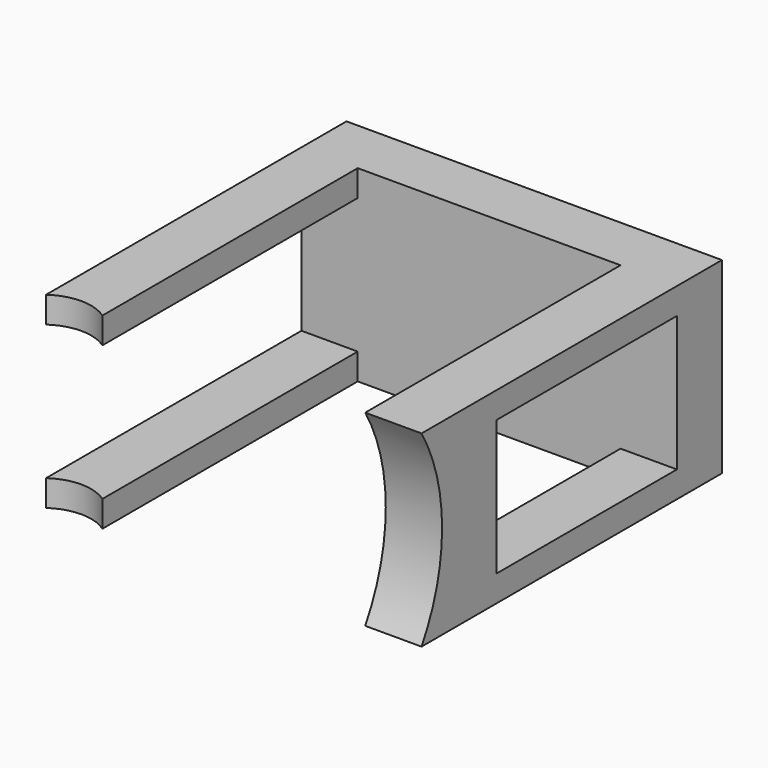
from build123d import *

# Parameters (mm, degrees)
F0_W     = 100
F0_H     = 50
F1_DEPTH = 100
F3_DEPTH = 85
F4_W     = 15
F4_H     = 50
F5_DEPTH = 25
F7_DEPTH = 15
F9_DEPTH = 50


with BuildPart() as f1:
    # F0 (on Front) → F1 (new body)
    with BuildSketch(Plane.XZ):
        with Locations((50, -25)):
            Rectangle(F0_W, F0_H)
    extrude(amount=F1_DEPTH)

    # F2 (on face) → F3 (cut)
    with BuildSketch(Plane.XZ.offset(100)):
        Polygon((85, 0), (15, 0), (15, -7), (0, -7), (0, -43), (15, -43), (15, -50), (85, -50), (85, -43), (100, -43), (100, -7), (85, -7), align=None)
    extrude(amount=-F3_DEPTH, mode=Mode.SUBTRACT)

    # F4 (on face) → F5 (join)
    with BuildSketch(Plane.XZ.offset(100)):
        with Locations((92.5, -25)):
            Rectangle(F4_W, F4_H)
    extrude(amount=-F5_DEPTH)

    # F6 (on face) → F7 (cut)
    with BuildSketch(Plane.YZ.offset(100)):
        with BuildLine():
            Line((-100, 0), (-100, -50))
            ThreePointArc((-100, -50), (-93.161987, -25), (-100, 0))
        make_face()
    extrude(amount=-F7_DEPTH, mode=Mode.SUBTRACT)

    # F8 (on face) → F9 (cut)
    with BuildSketch(Plane(origin=(0, 0, -50), x_dir=(1, 0, 0), z_dir=(0, 0, -1))):
        with BuildLine():
            Line((15, 100), (0, 100))
            ThreePointArc((0, 100), (7.5, 97.637464), (15, 100))
        make_face()
    extrude(amount=-F9_DEPTH, mode=Mode.SUBTRACT)


solid = f1.part
